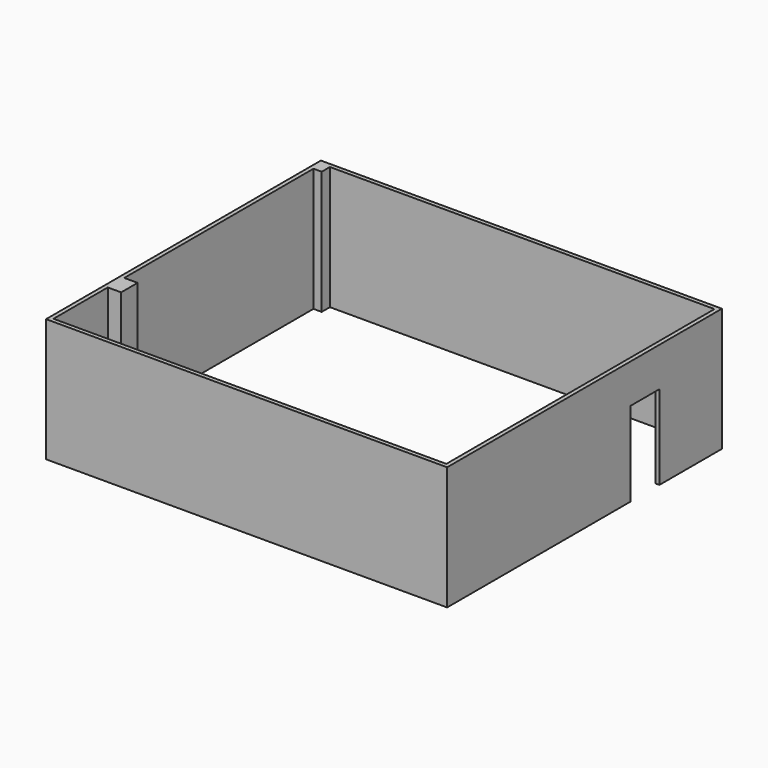
from build123d import *

# Parameters (mm, degrees)
F0_W      = 9906
F0_H      = 8483.6
F0_W_2    = 9702.8
F0_H_2    = 8280.4
F1_DEPTH  = 3048
F4_W      = 203.2
F4_H      = 3048
F5_DEPTH  = 254
F6_W      = 914.4
F6_H      = 2286
F7_DEPTH  = 101.601
F8_W      = 508
F8_H      = 3048
F9_DEPTH  = 330.2
F10_W     = 889
F10_H     = 2082.8
F11_DEPTH = 101.601
F12_W     = 3048
F12_H     = 1219.2
F13_DEPTH = 25.4


with BuildPart() as f1:
    # F0 (on Top) → F1 (new body)
    with BuildSketch(Plane.XY):
        with Locations((67.211082, -237.717982)):
            Rectangle(F0_W, F0_H)
        with Locations((67.211082, -237.717982)):
            Rectangle(F0_W_2, F0_H_2, mode=Mode.SUBTRACT)
    extrude(amount=F1_DEPTH)

    # F4 (on face) → F5 (join)
    with BuildSketch(Plane.XZ.offset(-3902.482018)):
        with Locations((-4682.588918, 1524)):
            Rectangle(F4_W, F4_H)
    extrude(amount=F5_DEPTH)

    # F6 (on face) → F7 (cut, through all)
    with BuildSketch(Plane.YZ.offset(-4784.188918)):
        with Locations((-3717.517982, 1143)):
            Rectangle(F6_W, F6_H)
    extrude(amount=-F7_DEPTH, mode=Mode.SUBTRACT)

    # F8 (on face) → F9 (join)
    with BuildSketch(Plane.YZ.offset(-4784.188918)):
        with Locations((-2447.517982, 1524)):
            Rectangle(F8_W, F8_H)
    extrude(amount=F9_DEPTH)

    # F10 (on face) → F11 (cut, through all)
    with BuildSketch(Plane(origin=(4918.611082, 0, 0), x_dir=(0, -1, 0), z_dir=(-1, 0, 0))):
        with Locations((-1629.182018, 1041.4)):
            Rectangle(F10_W, F10_H)
    extrude(amount=-F11_DEPTH, mode=Mode.SUBTRACT)


with BuildPart() as f13:
    # F12 (on face) → F13 (new body)
    with BuildSketch(Plane(origin=(4918.611082, 0, 0), x_dir=(0, -1, 0), z_dir=(-1, 0, 0))):
        with Locations((1837.917982, 1549.4)):
            Rectangle(F12_W, F12_H)
    extrude(amount=F13_DEPTH)


solid = Compound([f1.part, f13.part])
